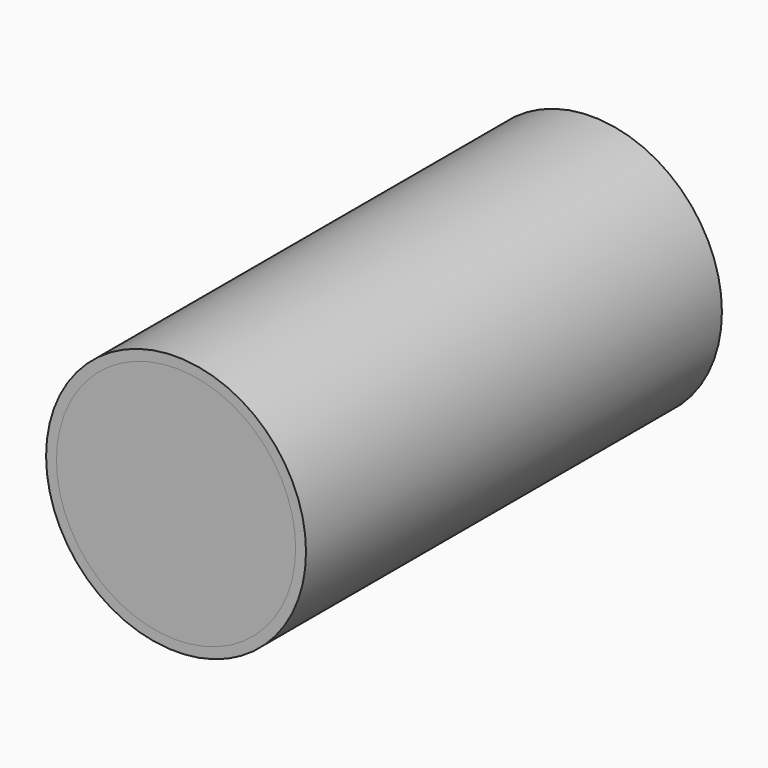
from build123d import *

# Parameters (mm, degrees)
F0_R     = 125
F1_DEPTH = 500
F2_T     = -10
F3_R     = 115
F4_DEPTH = 500


with BuildPart() as f1:
    # F0 (on Front) → F1 (new body)
    with BuildSketch(Plane.XZ):
        Circle(F0_R)
    extrude(amount=F1_DEPTH)

    # F2
    f2_openings = [f1.faces().sort_by_distance(p)[0] for p in [
        (0, -500, 0),
        (0, 0, 0),
    ]]
    offset(amount=F2_T, openings=f2_openings)


with BuildPart() as f4:
    # F3 (on Front) → F4 (new body)
    with BuildSketch(Plane.XZ):
        Circle(F3_R)
    extrude(amount=F4_DEPTH)


solid = Compound([f1.part, f4.part])
